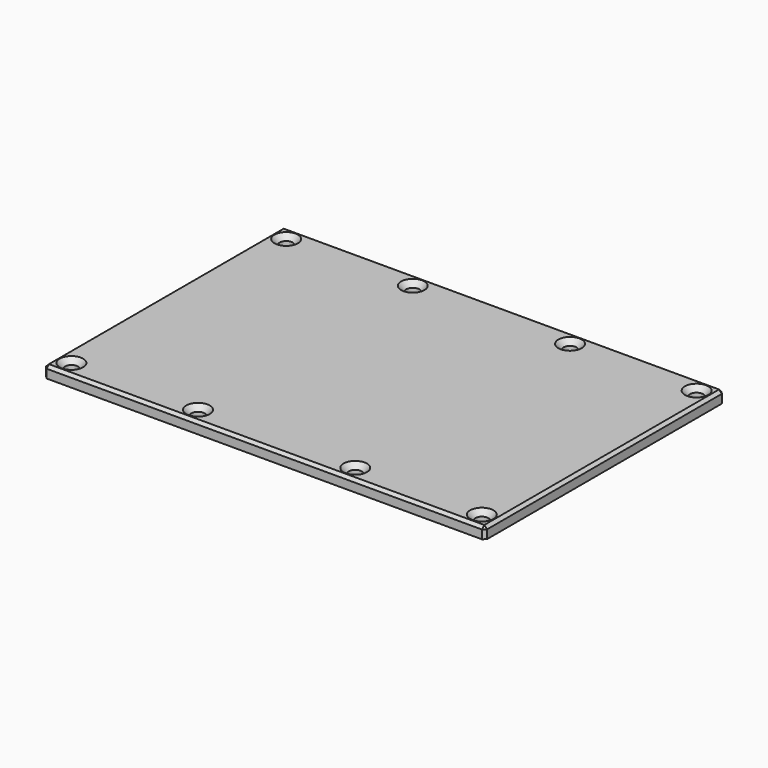
from build123d import *

# Parameters (mm, degrees)
SKETCH022_W         = 115
SKETCH022_H         = 78
PAD010_DEPTH        = 3
HOLE002_D           = 3.4
HOLE002_DEPTH       = 5
HOLE002_CSINK_D     = 6.1
HOLE002_CSINK_ANGLE = 90
SKETCH027_W         = 29
SKETCH027_H         = 29
POCKET009_DEPTH     = 1
CHAMFER001_SIZE     = 0.75


with BuildPart() as part:
    # Sketch022 (on Face1 of CopyPad011) → Pad010 (new body)
    with BuildSketch(Plane.XY.offset(24)):
        with Locations((52.5, 32)):
            Rectangle(SKETCH022_W, SKETCH022_H)
    extrude(amount=PAD010_DEPTH)

    # Hole002
    with Locations(Plane.XY.offset(27)):
        with Locations((-1, 67), (106, 67), (106, -3), (-1, -3), (32, 67), (73, -3), (32, -3), (73, 67)):
            CounterSinkHole(HOLE002_D / 2, HOLE002_CSINK_D / 2, depth=HOLE002_DEPTH, counter_sink_angle=HOLE002_CSINK_ANGLE)

    # Sketch027 → Pocket009 (cut)
    with BuildSketch(Plane(origin=(0, 0, 24), x_dir=(1, 0, 0), z_dir=(0, 0, -1))):
        with Locations((27.5, -16.5)):
            Rectangle(SKETCH027_W, SKETCH027_H)
    extrude(amount=-POCKET009_DEPTH, mode=Mode.SUBTRACT)

    # Chamfer001
    chamfer001_edges = [part.edges().sort_by_distance(p)[0] for p in [
        (52.5, 71, 27),
        (110, 71, 25.5),
        (110, 32, 27),
        (52.5, -7, 27),
        (110, -7, 25.5),
        (-5, 32, 27),
        (-5, 71, 25.5),
        (-5, -7, 25.5),
    ]]
    chamfer(chamfer001_edges, length=CHAMFER001_SIZE)


with BuildPart() as part_1:
    # Body002 placement: moved
    add(part.part.moved(Location((0, 0, -2.5))))


solid = part_1.part
